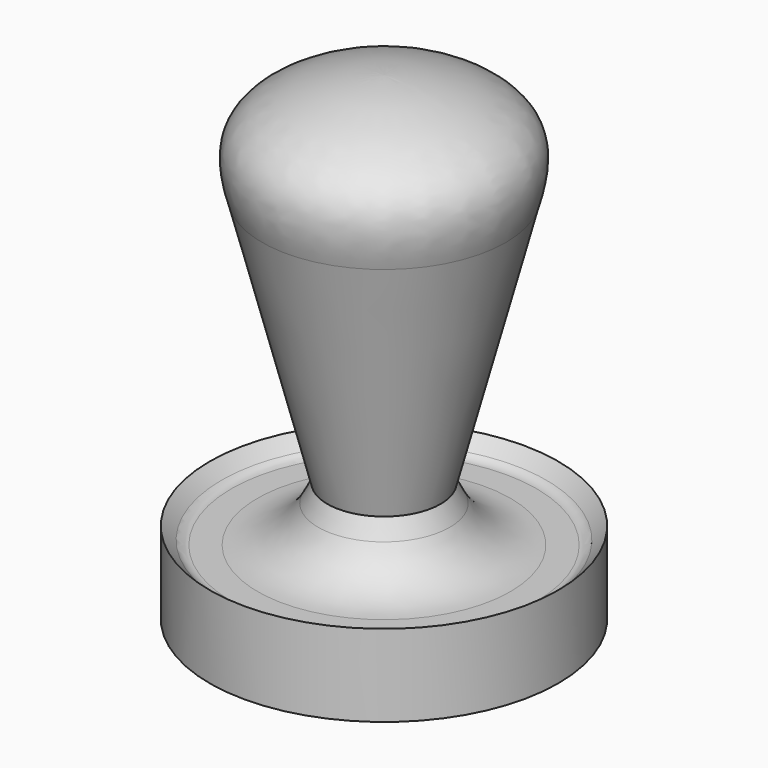
from build123d import *

# Parameters (mm, degrees)
F2_R = 10
F3_R = 2


with BuildPart() as f1:
    # F0 (on Front) → F1 (revolve)
    with BuildSketch(Plane.XZ):
        with BuildLine():
            Line((0, 70), (0, 0))
            Line((0, 0), (25.5, 0))
            Line((25.5, 0), (25.5, 12))
            Line((25.5, 12), (23.161351406, 9.536806494))
            Line((23.161351406, 9.536806494), (12.4268941581, 9.536806494))
            Line((12.4268941581, 9.536806494), (8.2896918707, 17.4999870426))
            Line((8.2896918707, 17.4999870426), (17.8353563403, 54.2824750416))
            add(Edge.make_bspline(
                [(17.8353563403, 54.2824750416), (18.8817362992, 57.6831345085), (19.5978634285, 63.6834766541), (9.8956074759, 68.9451214738), (3.3796710427, 69.9306730781), (0, 70)],
                knots=[0, 0, 0, 0, 0.3192028664, 0.6536802419, 1, 1, 1, 1], degree=3))
        make_face()
    revolve(axis=Axis((0, 0, 35), (0, 0, -1)))

    # F2
    f2_edges = [f1.edges().sort_by_distance(p)[0] for p in [
        (-12.426894, 0, 9.536806),
    ]]
    fillet(f2_edges, radius=F2_R)

    # F3
    f3_edges = [f1.edges().sort_by_distance(p)[0] for p in [
        (-23.161351, 0, 9.536806),
    ]]
    fillet(f3_edges, radius=F3_R)


solid = f1.part
